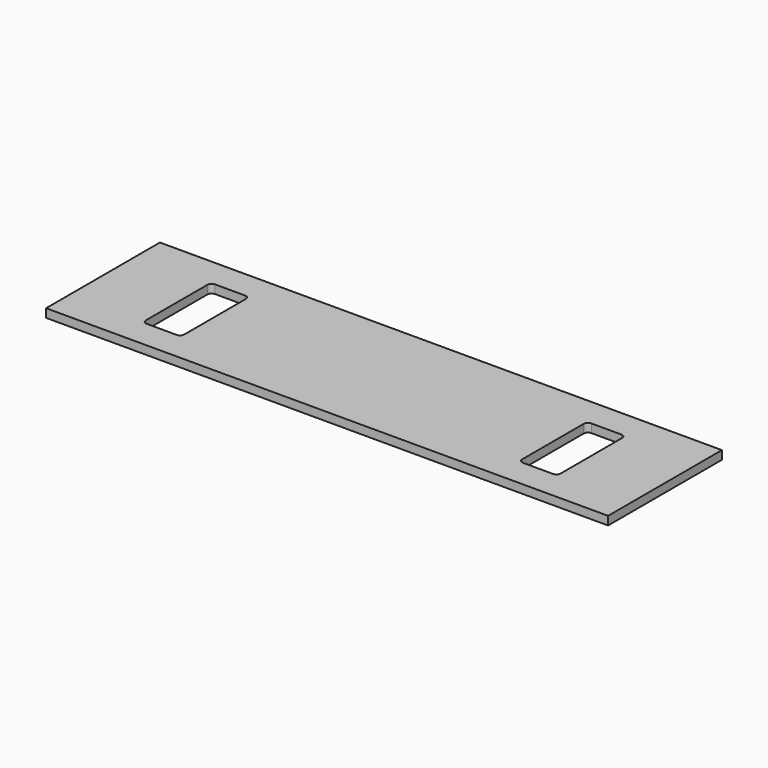
from build123d import *

# Parameters (mm, degrees)
F1_DEPTH = 12


with BuildPart() as f1:
    # F0 (on Top) → F1 (new body)
    with BuildSketch(Plane.XY):
        Polygon((395, 100), (0, 100), (-395, 100), (-395, -100), (0, -100), (395, -100), align=None)
        with BuildLine():
            Line((-285.5, 60), (-243.5, 60))
            ThreePointArc((-243.5, 60), (-239.257359, 58.242641), (-237.5, 54))
            Line((-237.5, 54), (-237.5, -54))
            ThreePointArc((-237.5, -54), (-239.257359, -58.242641), (-243.5, -60))
            Line((-243.5, -60), (-285.5, -60))
            ThreePointArc((-285.5, -60), (-289.742641, -58.242641), (-291.5, -54))
            Line((-291.5, -54), (-291.5, 54))
            ThreePointArc((-291.5, 54), (-289.742641, 58.242641), (-285.5, 60))
        make_face(mode=Mode.SUBTRACT)
        with BuildLine():
            ThreePointArc((237.5, 54), (239.257359, 58.242641), (243.5, 60))
            Line((243.5, 60), (285.5, 60))
            ThreePointArc((285.5, 60), (289.742641, 58.242641), (291.5, 54))
            Line((291.5, 54), (291.5, -54))
            ThreePointArc((291.5, -54), (289.742641, -58.242641), (285.5, -60))
            Line((285.5, -60), (243.5, -60))
            ThreePointArc((243.5, -60), (239.257359, -58.242641), (237.5, -54))
            Line((237.5, -54), (237.5, 54))
        make_face(mode=Mode.SUBTRACT)
    extrude(amount=F1_DEPTH)


solid = f1.part
